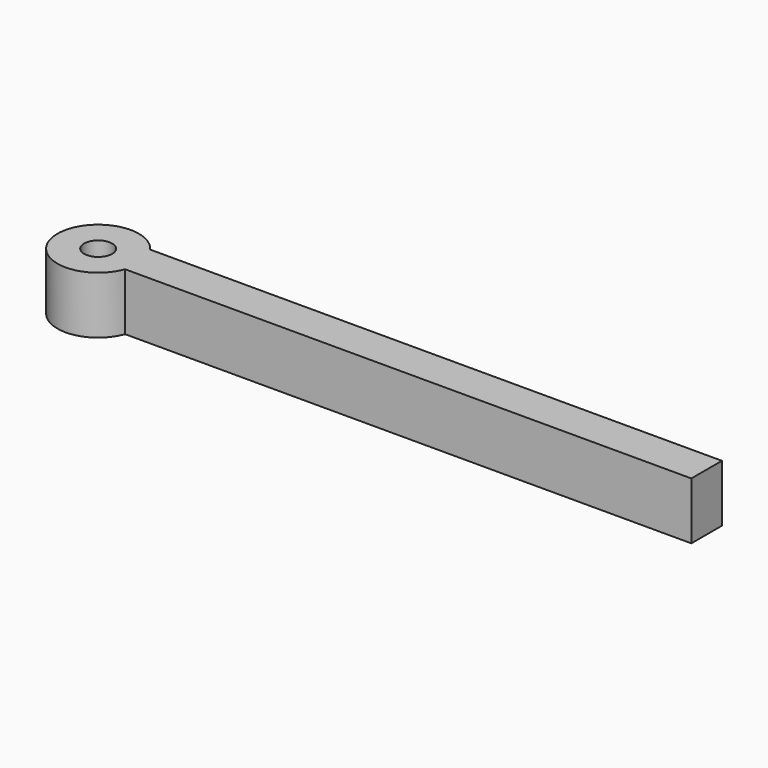
from build123d import *

# Parameters (mm, degrees)
F0_R     = 3.115166
F1_DEPTH = 12.7


with BuildPart() as f1:
    # F0 (on Top) → F1 (new body)
    with BuildSketch(Plane.XY):
        with BuildLine():
            ThreePointArc((-59.742244, -3.115166), (-59.327755, -1.58203), (-59.188154, 0))
            ThreePointArc((-59.188154, 0), (-59.642142, 2.827817), (-60.95848, 5.371418))
            ThreePointArc((-60.95848, 5.371418), (-77.164752, -1.281591), (-59.742244, -3.115166))
        make_face()
        with Locations((-68.222136, 0)):
            Circle(F0_R, mode=Mode.SUBTRACT)
        with BuildLine():
            ThreePointArc((-60.95848, 5.371418), (-59.642142, 2.827817), (-59.188154, 0))
            ThreePointArc((-59.188154, 0), (-59.327755, -1.58203), (-59.742244, -3.115166))
            Line((-59.742244, -3.115166), (66.04152, -3.115166))
            Line((66.04152, -3.115166), (66.04152, 5.371418))
            Line((66.04152, 5.371418), (-60.95848, 5.371418))
        make_face()
    extrude(amount=F1_DEPTH)


solid = f1.part
